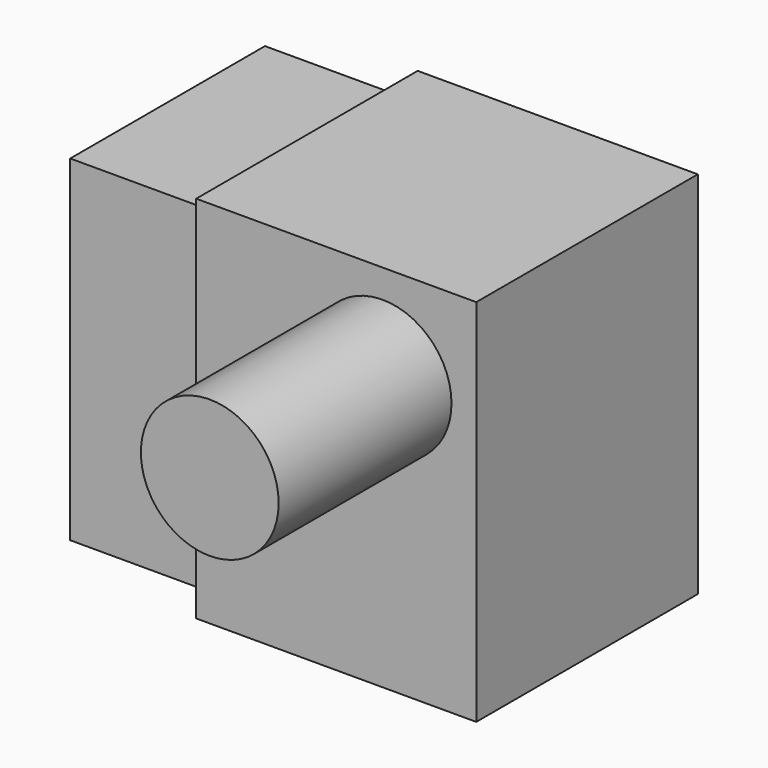
from build123d import *

# Parameters (mm, degrees)
F0_W     = 51.0519817472
F0_H     = 50.4617840052
F1_DEPTH = 67.3618763685
F2_R     = 12.5571720672
F3_DEPTH = 39.3777489662
F4_W     = 44.3657840052
F4_H     = 61.2658763685
F5_DEPTH = 25.4


with BuildPart() as f1:
    # F0 (on Top) → F1 (new body)
    with BuildSketch(Plane.XY):
        with Locations((-0.7996745408, 10.5232298374)):
            Rectangle(F0_W, F0_H)
    extrude(amount=F1_DEPTH)

    # F2 (on face) → F3 (join)
    with BuildSketch(Plane.XZ.offset(14.7076621652)):
        with Locations((7.6489895582, 49.6433377266)):
            Circle(F2_R)
    extrude(amount=F3_DEPTH)

    # F4 (on face) → F5 (join)
    with BuildSketch(Plane(origin=(-26.3256654143, 0, 0), x_dir=(0, -1, 0), z_dir=(-1, 0, 0))):
        with Locations((-10.5232298374, 33.6809381843)):
            Rectangle(F4_W, F4_H)
    extrude(amount=F5_DEPTH)


solid = f1.part
